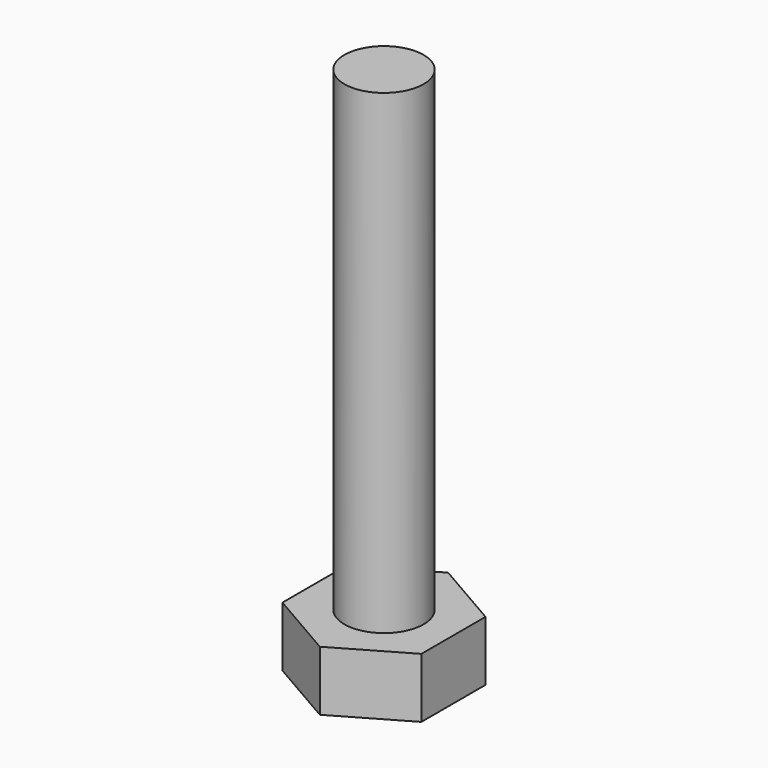
from build123d import *

# Parameters (mm, degrees)
SKETCH_R     = 3.175
PAD_DEPTH    = 38.1
PAD001_DEPTH = 4.8


with BuildPart() as part:
    # Sketch → Pad (new body)
    with BuildSketch(Plane.XY):
        Circle(SKETCH_R)
    extrude(amount=PAD_DEPTH)

    # Sketch001 → Pad001 (join)
    with BuildSketch(Plane.XY):
        Polygon((0, 6.425908), (-5.565, 3.212954), (-5.565, -3.212954), (0, -6.425908), (5.565, -3.212954), (5.565, 3.212954), align=None)
    extrude(amount=-PAD001_DEPTH)


solid = part.part
